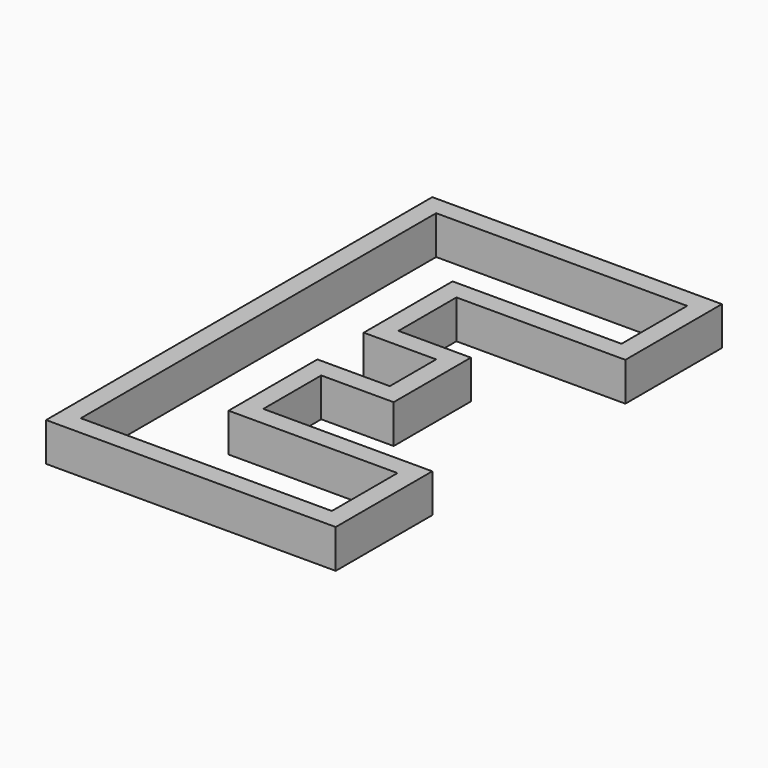
from build123d import *

# Parameters (mm, degrees)
F1_DEPTH = 8


with BuildPart() as f1:
    # F0 (on Top) → F1 (new body)
    with BuildSketch(Plane.XY):
        Polygon((0, 50), (0, 0), (0, -50), (60, -50), (60, -25), (25, -25), (25, -10), (40, -10), (40, 0), (40, 10), (25, 10), (25, 25), (60, 25), (60, 50), align=None)
        Polygon((4, -46), (4, 0), (4, 46), (56, 46), (56, 29), (21, 29), (21, 6), (36, 6), (36, 0), (36, -6), (21, -6), (21, -29), (56, -29), (56, -46), align=None, mode=Mode.SUBTRACT)
    extrude(amount=F1_DEPTH)


solid = f1.part
